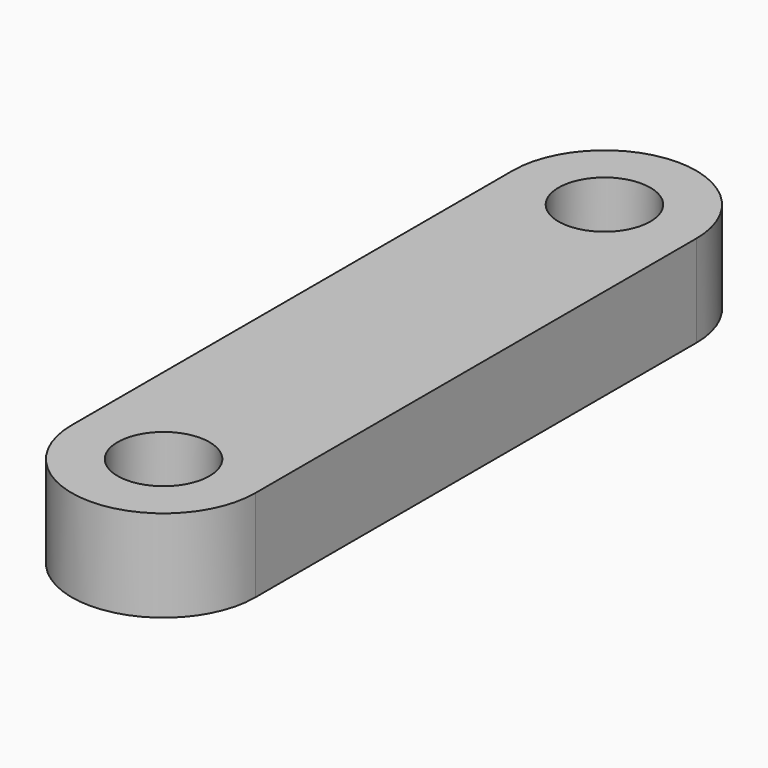
from build123d import *

# Parameters (mm, degrees)
F1_DEPTH = 63.5
F2_R     = 31.75
F3_DEPTH = 63.5


with BuildPart() as f1:
    # F0 (on Top) → F1 (new body)
    with BuildSketch(Plane.XY):
        with BuildLine():
            ThreePointArc((-63.5, -190.5), (0, -254), (63.5, -190.5))
            Line((63.5, -190.5), (-63.5, -190.5))
        make_face()
        with BuildLine():
            ThreePointArc((-63.5, -190.5), (0, -127), (63.5, -190.5))
            Line((63.5, -190.5), (63.5, 190.5))
            ThreePointArc((63.5, 190.5), (0, 127), (-63.5, 190.5))
            Line((-63.5, 190.5), (-63.5, -190.5))
        make_face()
        with BuildLine():
            Line((-63.5, -190.5), (63.5, -190.5))
            ThreePointArc((63.5, -190.5), (0, -127), (-63.5, -190.5))
        make_face()
        with BuildLine():
            ThreePointArc((-63.5, 190.5), (0, 127), (63.5, 190.5))
            Line((63.5, 190.5), (-63.5, 190.5))
        make_face()
        with BuildLine():
            Line((-63.5, 190.5), (63.5, 190.5))
            ThreePointArc((63.5, 190.5), (0, 254), (-63.5, 190.5))
        make_face()
    extrude(amount=F1_DEPTH)

    # F2 (on Top) → F3 (cut, through all)
    with BuildSketch(Plane.XY):
        with Locations((0, 190.5)):
            Circle(F2_R)
        with Locations((0, -190.5)):
            Circle(F2_R)
    extrude(amount=F3_DEPTH, mode=Mode.SUBTRACT)


solid = f1.part
